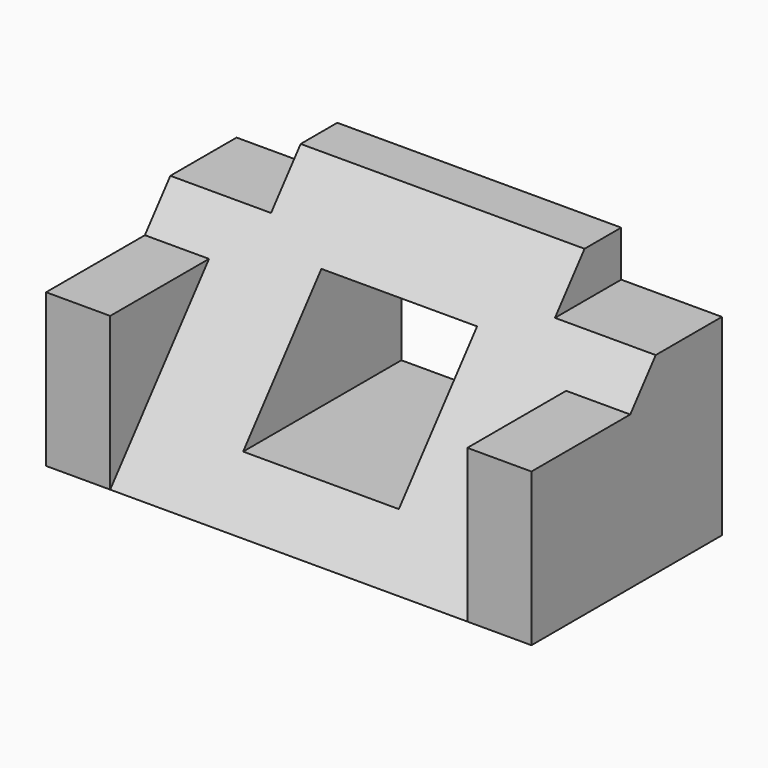
from build123d import *

# Parameters (mm, degrees)
PAD_DEPTH       = 26.5
SKETCH002_W     = 11
SKETCH002_H     = 5
POCKET_DEPTH    = 155.012627383
SKETCH003_W     = 7
SKETCH003_H     = 26
PAD001_DEPTH    = 16.7
POCKET001_DEPTH = 8.5


with BuildPart() as part:
    # Sketch001 → Pad (new body, symmetric)
    with BuildSketch(Plane.YZ):
        Polygon((-26, 0), (0, 0), (0, 26), (-5, 26), align=None)
    extrude(amount=PAD_DEPTH, both=True)

    # Sketch002 → Pocket (cut, through all)
    with BuildSketch(Plane.XZ):
        with Locations((-21, 23.5)):
            Rectangle(SKETCH002_W, SKETCH002_H)
    pocket = extrude(amount=POCKET_DEPTH, mode=Mode.SUBTRACT)

    # Mirrored: Pocket across Sketch002 V_Axis
    add(pocket.mirror(Plane(origin=(0, 0, 0), x_dir=(0, -1, 0), z_dir=(1, 0, 0))), mode=Mode.SUBTRACT)

    # Sketch003 → Pad001 (join)
    with BuildSketch(Plane.XY):
        with Locations((-23, -13)):
            Rectangle(SKETCH003_W, SKETCH003_H)
    pad001 = extrude(amount=PAD001_DEPTH)

    # Mirrored001: Pad001 across Sketch003 V_Axis
    add(pad001.mirror(Plane(origin=(0, 0, 0), x_dir=(0, 0, 1), z_dir=(1, 0, 0))))

    # Sketch004 → Pocket001 (cut, symmetric)
    with BuildSketch(Plane.YZ):
        Polygon((0, 5.4455882614), (0, 18.6705883249), (-10.9199094299, 18.6705883249), (-21.6016402504, 5.4455882614), align=None)
    extrude(amount=POCKET001_DEPTH, both=True, mode=Mode.SUBTRACT)


solid = part.part
